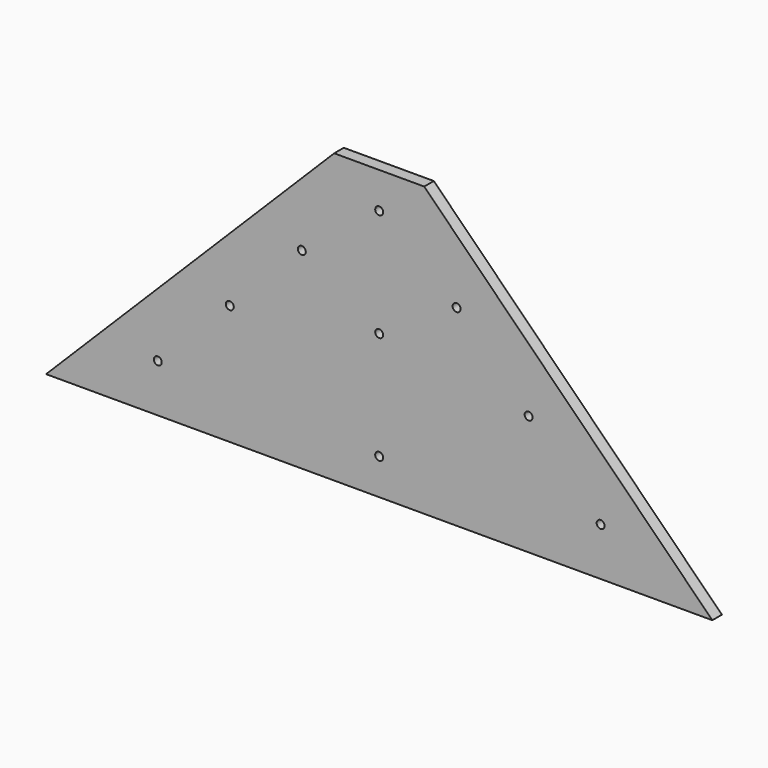
from build123d import *

# Parameters (mm, degrees)
F1_DEPTH = 12.7
F3_D     = 8.4328


with BuildPart() as f1:
    # F0 (on Front) → F1 (new body)
    with BuildSketch(Plane.XZ):
        Polygon((47.625, 152.4), (-47.625, 152.4), (-352.425, -152.4), (352.425, -152.4), align=None)
    extrude(amount=F1_DEPTH)

    # F3 (through all)
    with Locations(Plane.XZ.offset(12.7)):
        with Locations((0, 114.3), (-81.873079092, 50.8), (-158.073079092, -25.4), (-234.273079092, -101.6), (0, -114.3), (234.273079092, -101.6), (158.073079092, -25.4), (81.873079092, 50.8), (0, 0)):
            Hole(F3_D / 2)


solid = f1.part
